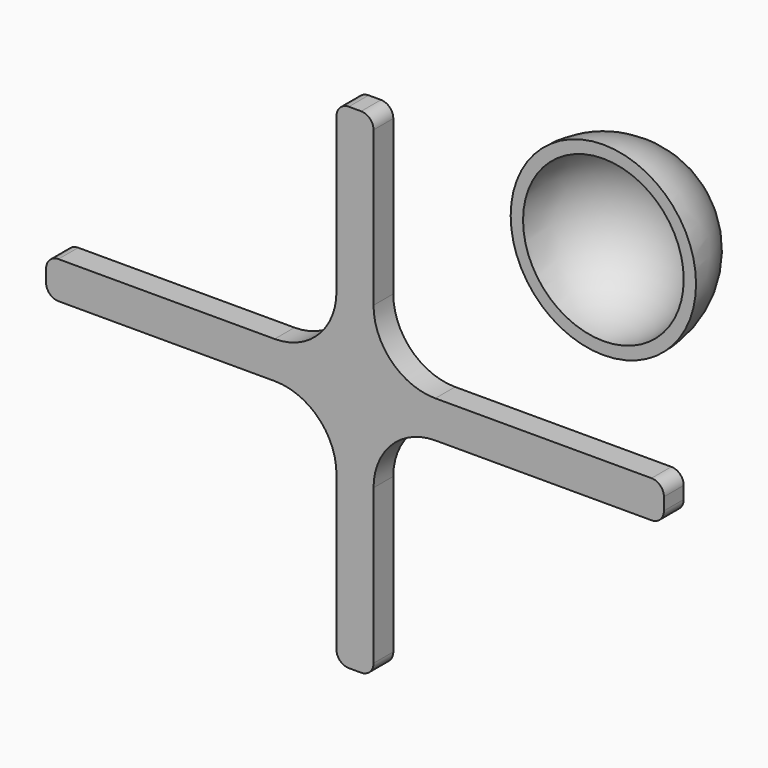
from build123d import *

# Parameters (mm, degrees)
F1_ANGLE = 180
F4_W     = 23.5
F4_H     = 3
F4_W_2   = 3
F4_H_2   = 18.5
F5_DEPTH = 2
F6_R     = 5
F7_R     = 1


with BuildPart() as f1:
    # F0 (on Front) → F1 (revolve)
    with BuildSketch(Plane.XZ):
        with BuildLine():
            Line((0, 6.5), (0, 7.5))
            ThreePointArc((0, 7.5), (-7.5, 0), (0, -7.5))
            Line((0, -7.5), (0, -6.5))
            ThreePointArc((0, -6.5), (-6.5, 0), (0, 6.5))
        make_face()
    revolve(axis=Axis((0, 0, -1.1614337564), (0, 0, -1)), revolution_arc=F1_ANGLE)


with BuildPart() as f5:
    # F4 (on offset) → F5 (new body)
    with BuildSketch(Plane.XZ.offset(25)):
        with Locations((-11.75, 1.5)):
            Rectangle(F4_W, F4_H)
        with Locations((14.75, 1.5)):
            Rectangle(F4_W, F4_H)
        with Locations((1.5, -9.25)):
            Rectangle(F4_W_2, F4_H_2)
        with Locations((1.5, 12.25)):
            Rectangle(F4_W_2, F4_H_2)
        with Locations((1.5, 1.5)):
            Rectangle(F4_W_2, F4_H)
    extrude(amount=F5_DEPTH)

    # F6
    f6_edges = [f5.edges().sort_by_distance(p)[0] for p in [
        (0, -26, 3),
        (0, -26, 0),
        (3, -26, 0),
        (3, -26, 3),
    ]]
    fillet(f6_edges, radius=F6_R)

    # F7
    f7_edges = [f5.edges().sort_by_distance(p)[0] for p in [
        (3, -26, 21.5),
        (0, -26, 21.5),
        (26.5, -26, 3),
        (26.5, -26, 0),
        (3, -26, -18.5),
        (0, -26, -18.5),
        (-23.5, -26, 3),
        (-23.5, -26, 0),
    ]]
    fillet(f7_edges, radius=F7_R)


solid = Compound([f1.part, f5.part])
